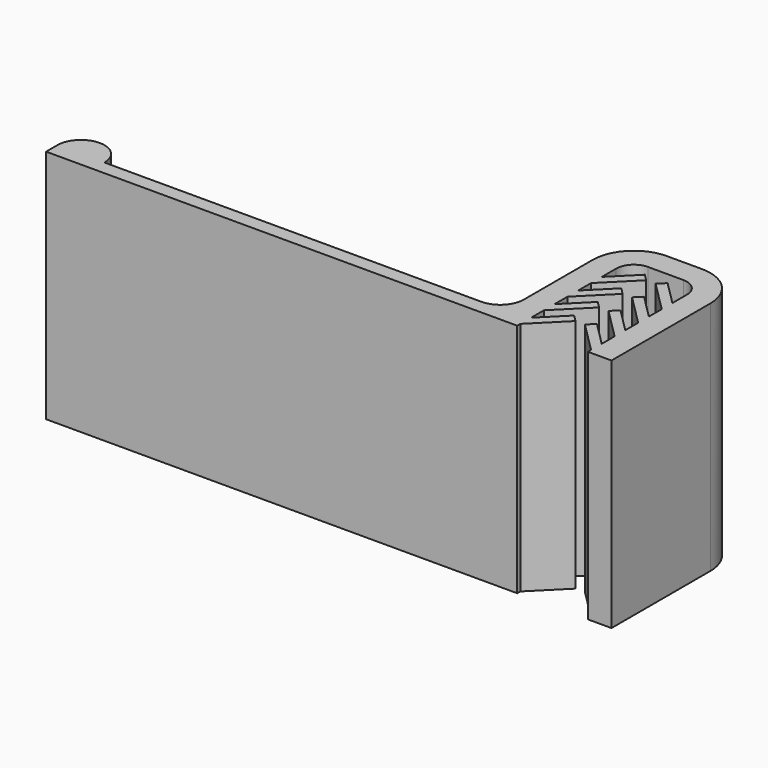
from build123d import *

# Parameters (mm, degrees)
F1_DEPTH = 20
F2_R     = 1.5
F3_R     = 3.5
F4_R     = 2


with BuildPart() as f1:
    # F0 (on Top) → F1 (new body)
    with BuildSketch(Plane.XY):
        with BuildLine():
            Line((0, 1.2), (0, 0))
            Line((0, 0), (40, 0))
            Line((40, 0), (40, 0.334315))
            Line((40, 0.334315), (40, 1.465685))
            Line((40, 1.465685), (40, 2.834315))
            Line((40, 2.834315), (40, 3.965685))
            Line((40, 3.965685), (40, 5.334315))
            Line((40, 5.334315), (40, 6.465685))
            Line((40, 6.465685), (40, 7.834315))
            Line((40, 7.834315), (40, 8.965685))
            Line((40, 8.965685), (40, 12))
            Line((40, 12), (46, 12))
            Line((46, 12), (46, 8.965685))
            Line((46, 8.965685), (46, 7.834315))
            Line((46, 7.834315), (46, 6.465685))
            Line((46, 6.465685), (46, 5.334315))
            Line((46, 5.334315), (46, 3.965685))
            Line((46, 3.965685), (46, 2.834315))
            Line((46, 2.834315), (46, 1.465685))
            Line((46, 1.465685), (46, 0.334315))
            Line((46, 0.334315), (46, 0))
            Line((46, 0), (48, 0))
            Line((48, 0), (48, 14))
            Line((48, 14), (38, 14))
            Line((38, 14), (38, 1.2))
            Line((38, 1.2), (4, 1.2))
            ThreePointArc((4, 1.2), (2, 3.2), (0, 1.2))
        make_face()
        Polygon((40, 1.465685), (40, 0.334315), (42.6, 2.934315), (42.034315, 3.5), align=None)
        Polygon((40, 3.965685), (40, 2.834315), (42.6, 5.434315), (42.034315, 6), align=None)
        Polygon((40, 6.465685), (40, 5.334315), (42.6, 7.934315), (42.034315, 8.5), align=None)
        Polygon((40, 8.965685), (40, 7.834315), (42.6, 10.434315), (42.034315, 11), align=None)
        Polygon((46, 7.834315), (46, 8.965685), (43.965685, 11), (43.4, 10.434315), align=None)
        Polygon((43.4, 7.934315), (46, 5.334315), (46, 6.465685), (43.965685, 8.5), align=None)
        Polygon((43.4, 5.434315), (46, 2.834315), (46, 3.965685), (43.965685, 6), align=None)
        Polygon((43.4, 2.934315), (46, 0.334315), (46, 1.465685), (43.965685, 3.5), align=None)
    extrude(amount=F1_DEPTH)

    # F2
    f2_edges = [f1.edges().sort_by_distance(p)[0] for p in [
        (40, 12, 10),
        (46, 12, 10),
    ]]
    fillet(f2_edges, radius=F2_R)

    # F3
    f3_edges = [f1.edges().sort_by_distance(p)[0] for p in [
        (38, 14, 10),
        (48, 14, 10),
    ]]
    fillet(f3_edges, radius=F3_R)

    # F4
    f4_edges = [f1.edges().sort_by_distance(p)[0] for p in [
        (38, 1.2, 10),
    ]]
    fillet(f4_edges, radius=F4_R)


solid = f1.part
